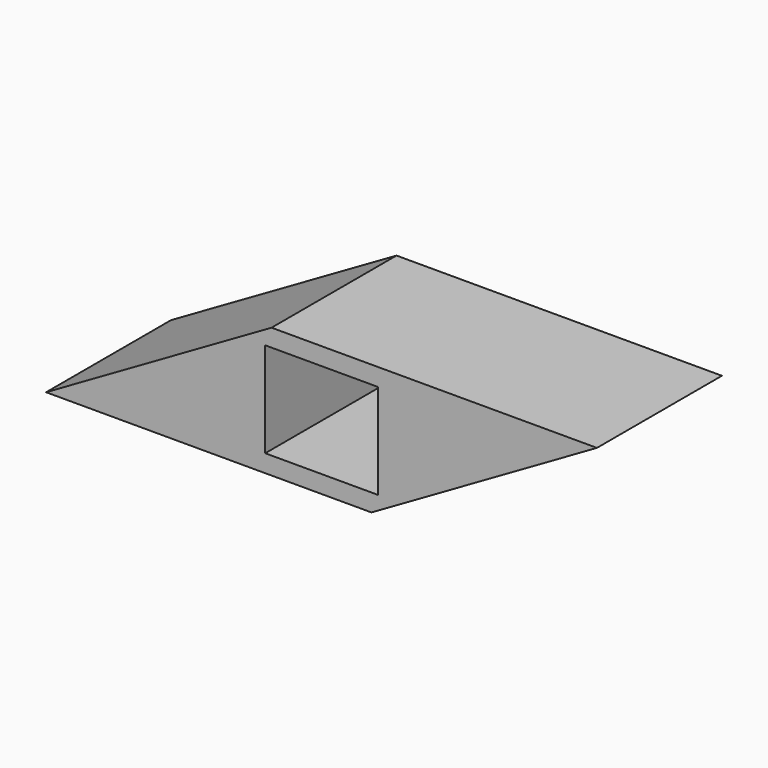
from build123d import *

# Parameters (mm, degrees)
F0_W     = 17.3
F0_H     = 14.6
F1_DEPTH = 24


with BuildPart() as f1:
    # F0 (on Front) → F1 (new body)
    with BuildSketch(Plane.XZ):
        Polygon((42.320508, 10), (-7.679492, 10), (-42.320508, -10), (7.679492, -10), align=None)
        Rectangle(F0_W, F0_H, mode=Mode.SUBTRACT)
    extrude(amount=F1_DEPTH)


solid = f1.part
